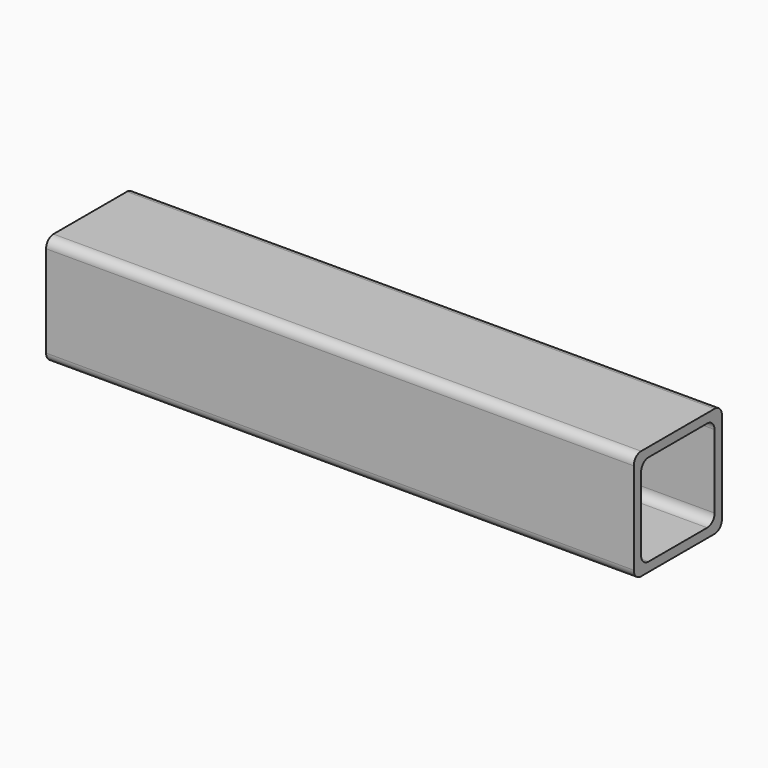
from build123d import *

# Parameters (mm, degrees)
F1_DEPTH = 203.2


with BuildPart() as f1:
    # F0 (on Right) → F1 (new body)
    with BuildSketch(Plane.YZ):
        with BuildLine():
            ThreePointArc((19.05, 15.875), (18.120064, 18.120064), (15.875, 19.05))
            Line((15.875, 19.05), (-15.875, 19.05))
            ThreePointArc((-15.875, 19.05), (-18.120064, 18.120064), (-19.05, 15.875))
            Line((-19.05, 15.875), (-19.05, -15.875))
            ThreePointArc((-19.05, -15.875), (-18.120064, -18.120064), (-15.875, -19.05))
            Line((-15.875, -19.05), (15.875, -19.05))
            ThreePointArc((15.875, -19.05), (18.120064, -18.120064), (19.05, -15.875))
            Line((19.05, -15.875), (19.05, 15.875))
        make_face()
        with BuildLine():
            Line((-12.7, 15.875), (12.7, 15.875))
            ThreePointArc((12.7, 15.875), (14.945064, 14.945064), (15.875, 12.7))
            Line((15.875, 12.7), (15.875, -12.7))
            ThreePointArc((15.875, -12.7), (14.945064, -14.945064), (12.7, -15.875))
            Line((12.7, -15.875), (-12.7, -15.875))
            ThreePointArc((-12.7, -15.875), (-14.945064, -14.945064), (-15.875, -12.7))
            Line((-15.875, -12.7), (-15.875, 12.7))
            ThreePointArc((-15.875, 12.7), (-14.945064, 14.945064), (-12.7, 15.875))
        make_face(mode=Mode.SUBTRACT)
    extrude(amount=F1_DEPTH)


solid = f1.part
